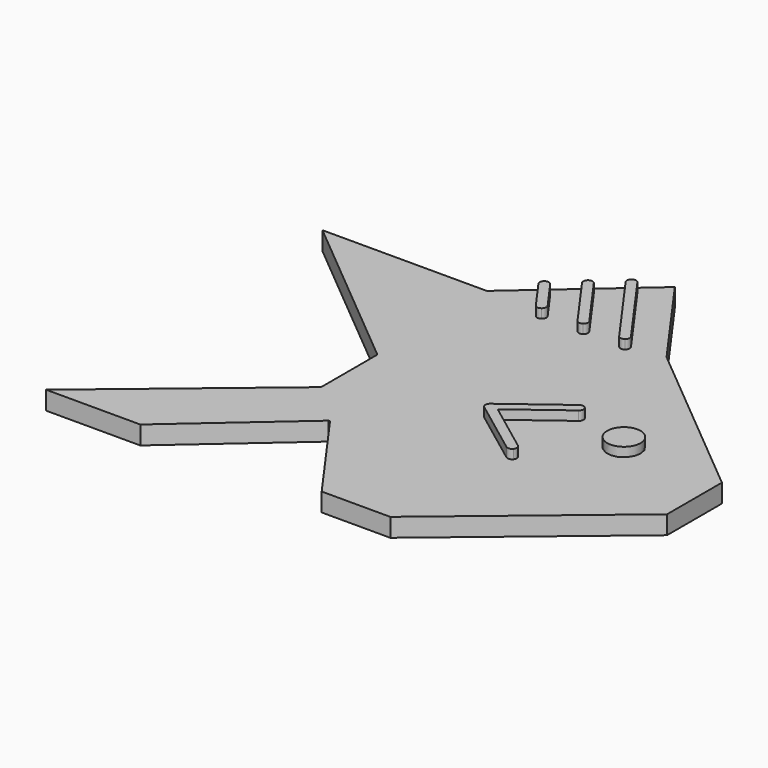
from build123d import *

# Parameters (mm, degrees)
EXTRUDE_DEPTH    = 3
EXTRUDE001_DEPTH = 3
EXTRUDE002_DEPTH = 3
EXTRUDE003_DEPTH = 3
EXTRUDE004_DEPTH = 3
EXTRUDE005_DEPTH = 2


with BuildPart() as extrude_body:
    # circle1393 → Extrude (new body)
    with BuildSketch(Plane(origin=(12.343358, 2.71226, 0), x_dir=(0, -1, 0), z_dir=(0, 0, -1))):
        with BuildLine():
            add(Edge.make_bspline(
                [(0, 1.8055), (1.8065, 1.8055), (1.8065, 0)],
                knots=[4.712389, 4.712389, 4.712389, 6.283185, 6.283185, 6.283185], degree=2, weights=[1, 0.707107, 1]))
            add(Edge.make_bspline(
                [(-1.8065, 0), (-1.8065, 1.8055), (0, 1.8055)],
                knots=[3.141593, 3.141593, 3.141593, 4.712389, 4.712389, 4.712389], degree=2, weights=[1, 0.707107, 1]))
            add(Edge.make_bspline(
                [(0, -1.8055), (-1.8065, -1.8055), (-1.8065, 0)],
                knots=[1.570796, 1.570796, 1.570796, 3.141593, 3.141593, 3.141593], degree=2, weights=[1, 0.707107, 1]))
            add(Edge.make_bspline(
                [(1.8065, 0), (1.8065, -1.8055), (0, -1.8055)],
                knots=[6.283185, 6.283185, 6.283185, 7.853982, 7.853982, 7.853982], degree=2, weights=[1, 0.707107, 1]))
        make_face()
    extrude(amount=-EXTRUDE_DEPTH)


with BuildPart() as extrude001:
    # path1401 → Extrude001 (new body)
    with BuildSketch(Plane(origin=(3.175766, -7e-06, 0), x_dir=(0, 1, 0), z_dir=(0, 0, 1))):
        with BuildLine():
            add(Edge.make_bspline(
                [(5.013679, -2.916031), (5.042813, -2.71063), (4.917976, -2.544937)],
                knots=[1.429894, 1.429894, 1.429894, 2.216488, 2.216488, 2.216488], degree=2, weights=[1, 0.923651, 1]))
            Line((4.917976, -2.544937), (0.400398, 3.476547))
            add(Edge.make_bspline(
                [(0.400398, 3.476547), (7e-06, 4.011704), (-0.400384, 3.476547)],
                knots=[2.213128, 2.213128, 2.213128, 4.070057, 4.070057, 4.070057], degree=2, weights=[1, 0.599064, 1]))
            Line((-0.400384, 3.476547), (-4.917962, -2.544937))
            add(Edge.make_bspline(
                [(-4.917962, -2.544937), (-5.219842, -2.945484), (-4.818353, -3.246109)],
                knots=[4.066544, 4.066544, 4.066544, 5.640468, 5.640468, 5.640468], degree=2, weights=[1, 0.706, 1]))
            add(Edge.make_bspline(
                [(-4.818353, -3.246109), (-4.419055, -3.545096), (-4.119134, -3.1465)],
                knots=[5.640464, 5.640464, 5.640464, 7.208918, 7.208918, 7.208918], degree=2, weights=[1, 0.707934, 1]))
            Line((-4.119134, -3.1465), (7e-06, 2.341781))
            Line((7e-06, 2.341781), (4.119147, -3.1465))
            add(Edge.make_bspline(
                [(4.119147, -3.1465), (4.419069, -3.545096), (4.818366, -3.246109)],
                knots=[5.357452, 5.357452, 5.357452, 6.925906, 6.925906, 6.925906], degree=2, weights=[1, 0.707934, 1]))
            add(Edge.make_bspline(
                [(4.818366, -3.246109), (4.984562, -3.121626), (5.013679, -2.916031)],
                knots=[0.64287, 0.64287, 0.64287, 1.43011, 1.43011, 1.43011], degree=2, weights=[1, 0.923527, 1]))
        make_face()
    extrude(amount=EXTRUDE001_DEPTH)


with BuildPart() as extrude002:
    # path1403 → Extrude002 (new body)
    with BuildSketch(Plane(origin=(-1.9945, 21.230777, 0), x_dir=(0, 1, 0), z_dir=(0, 0, 1))):
        with BuildLine():
            add(Edge.make_bspline(
                [(4.462582, 3.185187), (4.172533, 3.592352), (3.765317, 3.302375)],
                knots=[2.189772, 2.189772, 2.189772, 3.760391, 3.760391, 3.760391], degree=2, weights=[1, 0.707169, 1]))
            Line((3.765317, 3.302375), (-4.346011, -2.488641))
            add(Edge.make_bspline(
                [(-4.346011, -2.488641), (-4.753177, -2.77869), (-4.463199, -3.185906)],
                knots=[3.760567, 3.760567, 3.760567, 5.331188, 5.331188, 5.331188], degree=2, weights=[1, 0.707169, 1]))
            add(Edge.make_bspline(
                [(-4.463199, -3.185906), (-4.171459, -3.594665), (-3.76398, -3.301141)],
                knots=[5.332265, 5.332265, 5.332265, 6.907433, 6.907433, 6.907433], degree=2, weights=[1, 0.705559, 1]))
            Line((-3.76398, -3.301141), (4.345395, 2.487922))
            add(Edge.make_bspline(
                [(4.345395, 2.487922), (4.75256, 2.777971), (4.462582, 3.185187)],
                knots=[0.618976, 0.618976, 0.618976, 2.189596, 2.189596, 2.189596], degree=2, weights=[1, 0.707169, 1]))
        make_face()
    extrude(amount=EXTRUDE002_DEPTH)


with BuildPart() as extrude003:
    # path1405 → Extrude003 (new body)
    with BuildSketch(Plane(origin=(-9.289577, 18.797204, 0), x_dir=(0, 1, 0), z_dir=(0, 0, 1))):
        with BuildLine():
            add(Edge.make_bspline(
                [(2.028968, 1.448704), (1.738919, 1.85587), (1.331702, 1.565892)],
                knots=[2.18977, 2.18977, 2.18977, 3.760392, 3.760392, 3.760392], degree=2, weights=[1, 0.707168, 1]))
            Line((1.331702, 1.565892), (-1.912438, -0.750514))
            add(Edge.make_bspline(
                [(-1.912438, -0.750514), (-2.319604, -1.040563), (-2.029626, -1.44778)],
                knots=[3.760567, 3.760567, 3.760567, 5.331188, 5.331188, 5.331188], degree=2, weights=[1, 0.707169, 1]))
            add(Edge.make_bspline(
                [(-2.029626, -1.44778), (-1.738921, -1.857834), (-1.330407, -1.564967)],
                knots=[5.329093, 5.329093, 5.329093, 6.905169, 6.905169, 6.905169], degree=2, weights=[1, 0.705237, 1]))
            Line((-1.330407, -1.564967), (1.913733, 0.751439))
            add(Edge.make_bspline(
                [(1.913733, 0.751439), (2.319605, 1.042517), (2.028968, 1.448704)],
                knots=[0.622154, 0.622154, 0.622154, 2.191865, 2.191865, 2.191865], degree=2, weights=[1, 0.70749, 1]))
        make_face()
    extrude(amount=EXTRUDE003_DEPTH)


with BuildPart() as extrude004:
    # path1407 → Extrude004 (new body)
    with BuildSketch(Plane(origin=(-5.641844, 20.013132, 0), x_dir=(0, 1, 0), z_dir=(0, 0, 1))):
        with BuildLine():
            add(Edge.make_bspline(
                [(3.246634, 2.317141), (2.956585, 2.724307), (2.549368, 2.434328)],
                knots=[2.189771, 2.189771, 2.189771, 3.760393, 3.760393, 3.760393], degree=2, weights=[1, 0.707168, 1]))
            Line((2.549368, 2.434328), (-3.128366, -1.618406))
            add(Edge.make_bspline(
                [(-3.128366, -1.618406), (-3.535531, -1.908455), (-3.245554, -2.315672)],
                knots=[3.760567, 3.760567, 3.760567, 5.331188, 5.331188, 5.331188], degree=2, weights=[1, 0.707169, 1]))
            add(Edge.make_bspline(
                [(-3.245554, -2.315672), (-2.954848, -2.725726), (-2.546335, -2.432859)],
                knots=[5.329093, 5.329093, 5.329093, 6.905169, 6.905169, 6.905169], degree=2, weights=[1, 0.705237, 1]))
            Line((-2.546335, -2.432859), (3.129446, 1.619875))
            add(Edge.make_bspline(
                [(3.129446, 1.619875), (3.536612, 1.909924), (3.246634, 2.317141)],
                knots=[0.618974, 0.618974, 0.618974, 2.189595, 2.189595, 2.189595], degree=2, weights=[1, 0.707169, 1]))
        make_face()
    extrude(amount=EXTRUDE004_DEPTH)


with BuildPart() as extrude005:
    # path1399 → Extrude005 (new body)
    with BuildSketch(Plane(origin=(-2.462067, 1.905384, 0), x_dir=(0, 1, 0), z_dir=(0, 0, 1))):
        with BuildLine():
            add(Edge.make_bspline(
                [(15.988085, 12.147986), (15.930915, 12.347964), (15.976885, 12.566628), (15.962085, 12.774284)],
                knots=[0, 0, 0, 0, 1, 1, 1, 1], degree=3))
            add(Edge.make_bspline(
                [(15.962085, 12.774284), (15.962085, 18.513396), (15.962085, 24.252507), (15.962085, 29.991618)],
                knots=[0, 0, 0, 0, 1, 1, 1, 1], degree=3))
            add(Edge.make_bspline(
                [(15.962085, 29.991618), (11.003389, 24.044389), (6.044692, 18.097158), (1.085996, 12.149928)],
                knots=[0, 0, 0, 0, 1, 1, 1, 1], degree=3))
            add(Edge.make_bspline(
                [(1.085996, 12.149928), (0.921435, 12.071198), (0.72623, 12.130798), (0.548335, 12.112258)],
                knots=[0, 0, 0, 0, 1, 1, 1, 1], degree=3))
            add(Edge.make_bspline(
                [(0.548335, 12.112258), (-1.809804, 12.112258), (-4.167943, 12.112258), (-6.526082, 12.112258)],
                knots=[0, 0, 0, 0, 1, 1, 1, 1], degree=3))
            add(Edge.make_bspline(
                [(-6.526082, 12.112258), (-6.692124, 12.187828), (-6.771316, 12.376357), (-6.899567, 12.501079)],
                knots=[0, 0, 0, 0, 1, 1, 1, 1], degree=3))
            add(Edge.make_bspline(
                [(-6.899567, 12.501079), (-11.760543, 18.33126), (-16.621519, 24.16144), (-21.482495, 29.991621)],
                knots=[0, 0, 0, 0, 1, 1, 1, 1], degree=3))
            add(Edge.make_bspline(
                [(-21.482495, 29.991621), (-21.482495, 26.589303), (-21.482495, 23.186983), (-21.482495, 19.784663)],
                knots=[0, 0, 0, 0, 1, 1, 1, 1], degree=3))
            add(Edge.make_bspline(
                [(-21.482495, 19.784663), (-17.97673, 15.780228), (-14.470965, 11.775793), (-10.9652, 7.771359)],
                knots=[0, 0, 0, 0, 1, 1, 1, 1], degree=3))
            add(Edge.make_bspline(
                [(-10.9652, 7.771359), (-10.942731, 7.62523), (-11.051549, 7.556818), (-11.161361, 7.488994)],
                knots=[0, 0, 0, 0, 1, 1, 1, 1], degree=3))
            add(Edge.make_bspline(
                [(-11.161361, 7.488994), (-14.601739, 5.033026), (-18.042117, 2.577059), (-21.482495, 0.121091)],
                knots=[0, 0, 0, 0, 1, 1, 1, 1], degree=3))
            add(Edge.make_bspline(
                [(-21.482495, 0.121091), (-21.482495, -2.357019), (-21.482495, -4.835129), (-21.482495, -7.313238)],
                knots=[0, 0, 0, 0, 1, 1, 1, 1], degree=3))
            add(Edge.make_bspline(
                [(-21.482495, -7.313238), (-16.480597, -13.312255), (-11.478699, -19.311268), (-6.476801, -25.310282)],
                knots=[0, 0, 0, 0, 1, 1, 1, 1], degree=3))
            add(Edge.make_bspline(
                [(-6.476801, -25.310282), (-3.999199, -25.310282), (-1.521597, -25.310282), (0.956005, -25.310282)],
                knots=[0, 0, 0, 0, 1, 1, 1, 1], degree=3))
            add(Edge.make_bspline(
                [(0.956005, -25.310282), (5.966181, -19.30156), (10.976357, -13.292836), (15.986533, -7.284113)],
                knots=[0, 0, 0, 0, 1, 1, 1, 1], degree=3))
            add(Edge.make_bspline(
                [(15.986533, -7.284113), (18.830175, -5.244326), (21.683003, -3.21586), (24.530178, -1.180427)],
                knots=[0, 0, 0, 0, 1, 1, 1, 1], degree=3))
            add(Edge.make_bspline(
                [(24.530178, -1.180427), (25.171763, -0.72238), (25.813348, -0.264333), (26.454936, 0.193715)],
                knots=[0, 0, 0, 0, 1, 1, 1, 1], degree=3))
            add(Edge.make_bspline(
                [(26.454936, 0.193715), (22.965985, 4.178472), (19.477035, 8.163229), (15.988085, 12.147986)],
                knots=[0, 0, 0, 0, 1, 1, 1, 1], degree=3))
        make_face()
    extrude(amount=EXTRUDE005_DEPTH)


solid = Compound([extrude_body.part, extrude001.part, extrude002.part, extrude003.part, extrude004.part, extrude005.part])
